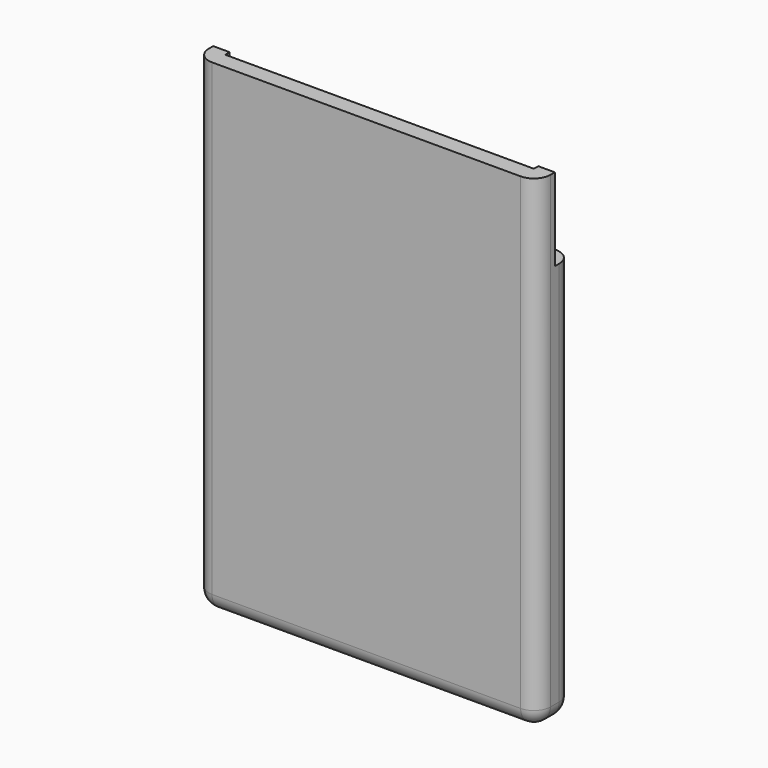
from build123d import *

# Parameters (mm, degrees)
F0_W     = 62
F0_H     = 8
F0_W_2   = 56
F0_H_2   = 2
F1_DEPTH = 86
F2_W     = 62
F2_H     = 15
F3_DEPTH = 5
F4_W     = 62
F4_H     = 2
F5_DEPTH = 4
F6_R     = 3


with BuildPart() as f1:
    # F0 (on Top) → F1 (new body)
    with BuildSketch(Plane.XY):
        Rectangle(F0_W, F0_H)
        Rectangle(F0_W_2, F0_H_2, mode=Mode.SUBTRACT)
    extrude(amount=F1_DEPTH)

    # F2 (on Front) → F3 (cut)
    with BuildSketch(Plane.XZ):
        with Locations((0, 78.5)):
            Rectangle(F2_W, F2_H)
    extrude(amount=-F3_DEPTH, mode=Mode.SUBTRACT)

    # F4 (on Front) → F5 (join, symmetric)
    with BuildSketch(Plane.XZ):
        with Locations((0, -1)):
            Rectangle(F4_W, F4_H)
    extrude(amount=F5_DEPTH, both=True)

    # F6
    f6_edges = [f1.edges().sort_by_distance(p)[0] for p in [
        (0, 4, -2),
        (0, -4, -2),
        (31, 0, -2),
        (-31, 0, -2),
        (31, 4, 34.5),
        (31, -4, 42),
        (-31, 4, 34.5),
        (-31, -4, 42),
    ]]
    fillet(f6_edges, radius=F6_R)


solid = f1.part
